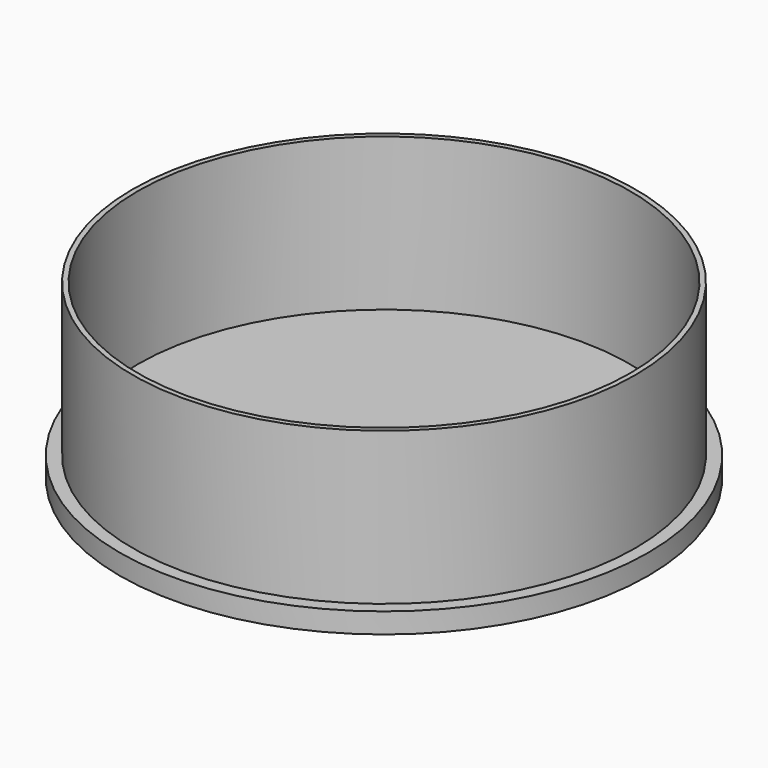
from build123d import *

# Parameters (mm, degrees)
SKETCH_R      = 26
PAD_DEPTH     = 2
SKETCH001_R   = 24.75
SKETCH001_R_2 = 24.25
PAD001_DEPTH  = 15


with BuildPart() as part:
    # Sketch → Pad (new body)
    with BuildSketch(Plane.XY):
        Circle(SKETCH_R)
    extrude(amount=PAD_DEPTH)

    # Sketch001 (on Face3 of Pad) → Pad001 (join)
    with BuildSketch(Plane.XY.offset(2)):
        Circle(SKETCH001_R)
        Circle(SKETCH001_R_2, mode=Mode.SUBTRACT)
    extrude(amount=PAD001_DEPTH)


solid = part.part
